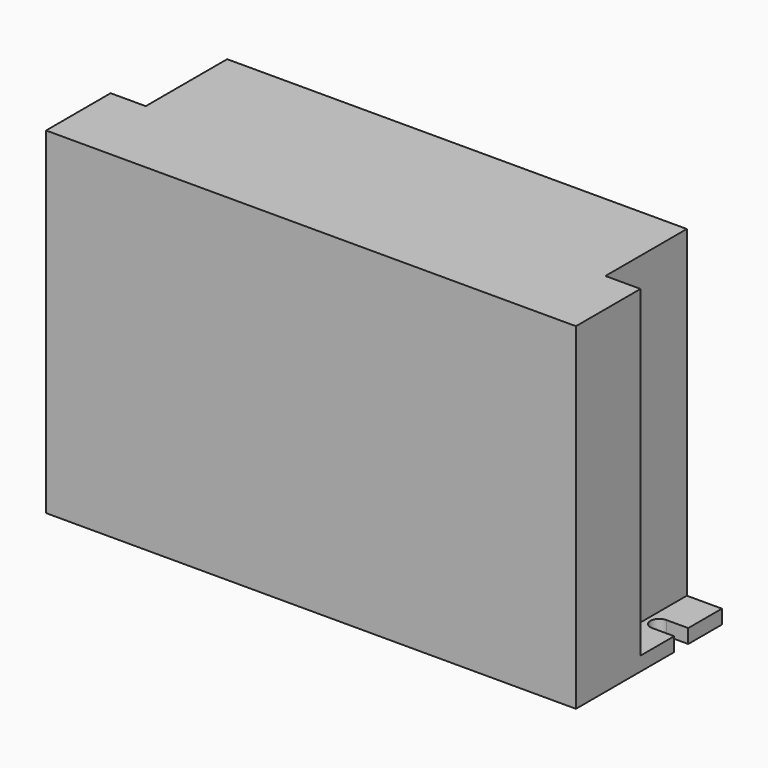
from build123d import *

# Parameters (mm, degrees)
F0_W     = 151
F0_H     = 52
F1_DEPTH = 4
F3_DEPTH = 92
F4_DEPTH = 25


with BuildPart() as f1:
    # F0 (on Top) → F1 (new body)
    with BuildSketch(Plane.XY):
        with Locations((75.5, 26)):
            Rectangle(F0_W, F0_H)
    extrude(amount=F1_DEPTH)

    # F2 (on face) → F3 (join)
    with BuildSketch(Plane.XY.offset(4)):
        Polygon((141, 23), (141, 52), (75.5, 52), (75.5, 0), (151, 0), (151, 23), align=None)
        Polygon((75.5, 0), (75.5, 52), (10, 52), (10, 23), (0, 23), (0, 0), align=None)
    extrude(amount=F3_DEPTH)

    # F2 (on face) → F4 (cut)
    with BuildSketch(Plane.XY.offset(4)):
        with BuildLine():
            Line((6.259378, 40), (0, 40))
            Line((0, 40), (0, 35))
            Line((0, 35), (6.259378, 35))
            ThreePointArc((6.259378, 35), (8.759378, 37.5), (6.259378, 40))
        make_face()
        with BuildLine():
            Line((151, 35), (151, 40))
            Line((151, 40), (144.740622, 40))
            ThreePointArc((144.740622, 40), (142.240622, 37.5), (144.740622, 35))
            Line((144.740622, 35), (151, 35))
        make_face()
    extrude(amount=-F4_DEPTH, mode=Mode.SUBTRACT)


solid = f1.part
